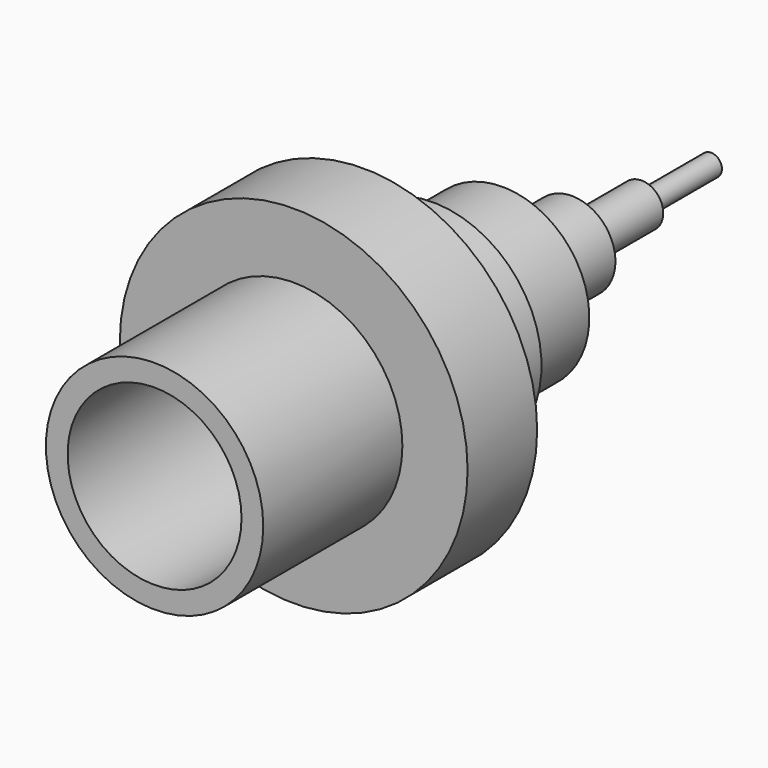
from build123d import *

# Parameters (mm, degrees)
F0_R      = 40
F1_DEPTH  = 20
F2_R      = 25
F3_DEPTH  = 40
F4_R      = 20
F5_DEPTH  = 40
F6_R      = 25
F7_DEPTH  = 20
F8_R      = 20
F9_DEPTH  = 20
F11_R     = 10
F12_DEPTH = 20
F13_R     = 5
F14_DEPTH = 20
F15_R     = 2.5
F16_DEPTH = 20


with BuildPart() as f1:
    # F0 (on Front) → F1 (new body)
    with BuildSketch(Plane.XZ):
        Circle(F0_R)
    extrude(amount=F1_DEPTH)

    # F2 (on face) → F3 (join)
    with BuildSketch(Plane.XZ.offset(20)):
        Circle(F2_R)
    extrude(amount=F3_DEPTH)

    # F4 (on face) → F5 (cut)
    with BuildSketch(Plane.XZ.offset(60)):
        Circle(F4_R)
        Circle(F4_R)
    extrude(amount=-F5_DEPTH, mode=Mode.SUBTRACT)

    # F6 (on face) → F7 (join)
    with BuildSketch(Plane(origin=(0, 0, 0), x_dir=(-1, 0, 0), z_dir=(0, 1, 0))):
        Circle(F6_R)
    extrude(amount=F7_DEPTH)

    # F8 (on face) → F9 (join)
    with BuildSketch(Plane(origin=(0, 20, 0), x_dir=(-1, 0, 0), z_dir=(0, 1, 0))):
        Circle(F8_R)
    extrude(amount=F9_DEPTH)

    # F11 (on face) → F12 (join)
    with BuildSketch(Plane(origin=(0, 40, 0), x_dir=(-1, 0, 0), z_dir=(0, 1, 0))):
        Circle(F11_R)
    extrude(amount=F12_DEPTH)

    # F13 (on face) → F14 (join)
    with BuildSketch(Plane(origin=(0, 60, 0), x_dir=(-1, 0, 0), z_dir=(0, 1, 0))):
        Circle(F13_R)
    extrude(amount=F14_DEPTH)

    # F15 (on face) → F16 (join)
    with BuildSketch(Plane(origin=(0, 80, 0), x_dir=(-1, 0, 0), z_dir=(0, 1, 0))):
        Circle(F15_R)
    extrude(amount=F16_DEPTH)


solid = f1.part
